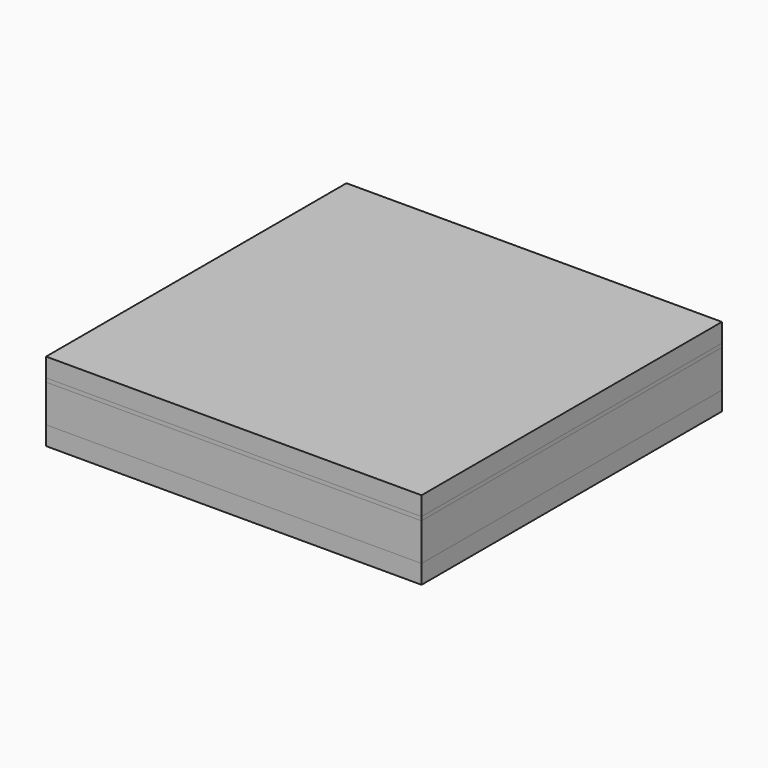
from build123d import *

# Parameters (mm, degrees)
F0_W      = 100
F0_H      = 100
F1_DEPTH  = 5
F2_W      = 94
F2_H      = 30
F3_DEPTH  = 1
F4_DEPTH  = 1
F5_DEPTH  = 2
F6_DEPTH  = 3
F7_DEPTH  = 1
F8_R      = 2
F8_R_2    = 1.9803043688
F8_R_3    = 2.1491299045
F8_R_4    = 1.9803032279
F8_R_5    = 1.8670470255
F9_DEPTH  = 1
F10_R     = 2
F10_R_2   = 1.9803043688
F10_R_3   = 2.1491299045
F10_R_4   = 1.9803032279
F10_R_5   = 1.8670470255
F11_DEPTH = 1
F12_R     = 2
F12_R_2   = 1.9803043688
F12_R_3   = 2.1491299045
F12_R_4   = 1.9803032279
F12_R_5   = 1.8670470255
F13_DEPTH = 1
F14_W     = 94
F14_H     = 30
F15_DEPTH = 1
F16_W     = 94
F16_H     = 30
F17_DEPTH = 1
F18_W     = 94
F18_H     = 30
F19_DEPTH = 1
F21_DEPTH = 94
F22_W     = 3
F22_H     = 100
F23_DEPTH = 10
F25_DEPTH = 1
F26_DEPTH = 5


with BuildPart() as f1:
    # F0 (on Top) → F1 (new body)
    with BuildSketch(Plane.XY):
        Rectangle(F0_W, F0_H)
    extrude(amount=F1_DEPTH)


with BuildPart() as f3:
    # F2 (on face) → F3 (new body)
    with BuildSketch(Plane.XY.offset(5)):
        with Locations((0, 32)):
            Rectangle(F2_W, F2_H)
    extrude(amount=F3_DEPTH)


with BuildPart() as f3b:
    # F2 (on face) → F3, piece 2 (new body)
    with BuildSketch(Plane.XY.offset(5)):
        Rectangle(F2_W, F2_H)
    extrude(amount=F3_DEPTH)


with BuildPart() as f3c:
    # F2 (on face) → F3, piece 3 (new body)
    with BuildSketch(Plane.XY.offset(5)):
        with Locations((0, -32)):
            Rectangle(F2_W, F2_H)
    extrude(amount=F3_DEPTH)


with BuildPart() as f4:
    # F4 (new): a face of the model
    f4_faces = [f3.part.faces().sort_by_distance(p)[0] for p in [
        (0, 32, 6),
    ]]
    extrude(f4_faces, amount=F4_DEPTH)


with BuildPart() as f5:
    # F5 (new): a face of the model
    f5_faces = [f3b.part.faces().sort_by_distance(p)[0] for p in [
        (0, 0, 6),
    ]]
    extrude(f5_faces, amount=F5_DEPTH)


with BuildPart() as f6:
    # F6 (new): a face of the model
    f6_faces = [f3c.part.faces().sort_by_distance(p)[0] for p in [
        (0, -32, 6),
    ]]
    extrude(f6_faces, amount=F6_DEPTH)


with BuildPart() as f7:
    # F7 (new): a face of the model
    f7_faces = [f6.part.faces().sort_by_distance(p)[0] for p in [
        (0, -32, 9),
    ]]
    extrude(f7_faces, amount=F7_DEPTH)

    # F8 (on face) → F9 (cut)
    with BuildSketch(Plane.XY.offset(10)):
        with Locations((-35.5509701187, -31.9915259829)):
            Circle(F8_R)
        with Locations((-18.1860954302, -36.5808133435)):
            Circle(F8_R)
        with Locations((-12.8525993794, -25.2936451459)):
            Circle(F8_R)
        with Locations((8.3573513544, -31.6194203253)):
            Circle(F8_R)
        with Locations((19.6445221769, -30.3790716333)):
            Circle(F8_R)
        with Locations((31.3037890322, -25.5417120843)):
            Circle(F8_R)
        with Locations((34.1565885739, -40.549926358)):
            Circle(F8_R)
        with Locations((12.5745365573, -42.9065885229)):
            Circle(F8_R)
        with Locations((3.1478911791, -21.4485638506)):
            Circle(F8_R)
        with Locations((-5.5345450714, -38.8134385391)):
            Circle(F8_R)
        with Locations((-30.5895753506, -22.0687399466)):
            Circle(F8_R)
        with Locations((-42.372882675, -41.0460654848)):
            Circle(F8_R)
        with Locations((40.1102650956, -29.014687722)):
            Circle(F8_R)
        with Locations((-28.4809853741, -42.5344828653)):
            Circle(F8_R)
        with Locations((21.7531104034, -38.8134385391)):
            Circle(F8_R)
        with Locations((-42.4969178942, -21.5725990698)):
            Circle(F8_R)
        with Locations((-2.8714367654, -30.001571402)):
            Circle(F8_R_2)
        with Locations((16.9315822423, -20.100062713)):
            Circle(F8_R_3)
        with Locations((-24.5227385312, -26.1729899794)):
            Circle(F8_R_4)
        with Locations((36.7345996201, -20.100062713)):
            Circle(F8_R)
        with Locations((41.35530442, -36.9986407459)):
            Circle(F8_R)
        with Locations((26.9651096314, -32.5099565089)):
            Circle(F8_R)
        with Locations((1.3532057637, -41.3553006947)):
            Circle(F8_R_5)
        with Locations((-14.4892092794, -44.5237867534)):
            Circle(F8_R)
    extrude(amount=-F9_DEPTH, mode=Mode.SUBTRACT)


with BuildPart() as f7b:
    # F7#2 (new): a face of the model
    f7_2_faces = [f5.part.faces().sort_by_distance(p)[0] for p in [
        (0, 0, 8),
    ]]
    extrude(f7_2_faces, amount=F7_DEPTH)

    # F10 (on face) → F11 (cut)
    with BuildSketch(Plane.XY.offset(9)):
        with Locations((-36.8780970282, -0.303228609)):
            Circle(F10_R)
        with Locations((-19.5132223397, -4.8925159696)):
            Circle(F10_R)
        with Locations((-14.1797262889, 6.394652228)):
            Circle(F10_R)
        with Locations((7.030224445, 0.0688770486)):
            Circle(F10_R)
        with Locations((18.3173952675, 1.3092257406)):
            Circle(F10_R)
        with Locations((29.9766621227, 6.1465852895)):
            Circle(F10_R)
        with Locations((32.8294616644, -8.8616289841)):
            Circle(F10_R)
        with Locations((11.2474096479, -11.218291149)):
            Circle(F10_R)
        with Locations((1.8207642696, 10.2397335233)):
            Circle(F10_R)
        with Locations((-6.8616719809, -7.1251411653)):
            Circle(F10_R)
        with Locations((-31.9167022601, 9.6195574273)):
            Circle(F10_R)
        with Locations((-43.7000095844, -9.3577681109)):
            Circle(F10_R)
        with Locations((38.7831381861, 2.6736096518)):
            Circle(F10_R)
        with Locations((-29.8081122836, -10.8461854914)):
            Circle(F10_R)
        with Locations((20.425983494, -7.1251411653)):
            Circle(F10_R)
        with Locations((-43.8240448036, 10.1156983041)):
            Circle(F10_R)
        with Locations((-4.1985636749, 1.6867259719)):
            Circle(F10_R_2)
        with Locations((15.6044553328, 11.5882346608)):
            Circle(F10_R_3)
        with Locations((-25.8498654407, 5.5153073945)):
            Circle(F10_R_4)
        with Locations((35.4074727106, 11.5882346608)):
            Circle(F10_R)
        with Locations((40.0281775105, -5.310343372)):
            Circle(F10_R)
        with Locations((25.637982722, -0.821659135)):
            Circle(F10_R)
        with Locations((0.0260788543, -9.6670033208)):
            Circle(F10_R_5)
        with Locations((-15.8163361889, -12.8354893795)):
            Circle(F10_R)
    extrude(amount=-F11_DEPTH, mode=Mode.SUBTRACT)


with BuildPart() as f7c:
    # F7#3 (new): a face of the model
    f7_3_faces = [f4.part.faces().sort_by_distance(p)[0] for p in [
        (0, 32, 7),
    ]]
    extrude(f7_3_faces, amount=F7_DEPTH)

    # F12 (on face) → F13 (cut)
    with BuildSketch(Plane.XY.offset(8)):
        with Locations((-35.2092898152, 32.6772198288)):
            Circle(F12_R)
        with Locations((-17.8444151267, 28.0879324683)):
            Circle(F12_R)
        with Locations((-12.5109190759, 39.3751006658)):
            Circle(F12_R)
        with Locations((8.699031658, 33.0493254864)):
            Circle(F12_R)
        with Locations((19.9862024805, 34.2896741784)):
            Circle(F12_R)
        with Locations((31.6454693357, 39.1270337274)):
            Circle(F12_R)
        with Locations((34.4982688774, 24.1188194537)):
            Circle(F12_R)
        with Locations((12.9162168609, 21.7621572889)):
            Circle(F12_R)
        with Locations((3.4895714826, 43.2201819611)):
            Circle(F12_R)
        with Locations((-5.1928647679, 25.8553072726)):
            Circle(F12_R)
        with Locations((-30.2478950471, 42.6000058651)):
            Circle(F12_R)
        with Locations((-42.0312023714, 23.6226803269)):
            Circle(F12_R)
        with Locations((40.4519453991, 35.6540580897)):
            Circle(F12_R)
        with Locations((-28.1393050706, 22.1342629465)):
            Circle(F12_R)
        with Locations((22.094790707, 25.8553072726)):
            Circle(F12_R)
        with Locations((-42.1552375906, 43.0961467419)):
            Circle(F12_R)
        with Locations((-2.5297564619, 34.6671744098)):
            Circle(F12_R_2)
        with Locations((17.2732625458, 44.5686830987)):
            Circle(F12_R_3)
        with Locations((-24.1810582277, 38.4957558323)):
            Circle(F12_R_4)
        with Locations((37.0762799236, 44.5686830987)):
            Circle(F12_R)
        with Locations((41.6969847235, 27.6701050658)):
            Circle(F12_R)
        with Locations((27.306789935, 32.1587893028)):
            Circle(F12_R)
        with Locations((1.6948860673, 23.313445117)):
            Circle(F12_R_5)
        with Locations((-14.1475289759, 20.1449590583)):
            Circle(F12_R)
    extrude(amount=-F13_DEPTH, mode=Mode.SUBTRACT)


with BuildPart() as f15:
    # F14 (on face) → F15 (new body)
    with BuildSketch(Plane.XY.offset(8)):
        with Locations((0, 32)):
            Rectangle(F14_W, F14_H)
    extrude(amount=F15_DEPTH)


with BuildPart() as f17:
    # F16 (on face) → F17 (new body)
    with BuildSketch(Plane.XY.offset(9)):
        Rectangle(F16_W, F16_H)
    extrude(amount=F17_DEPTH)


with BuildPart() as f19:
    # F18 (on face) → F19 (new body)
    with BuildSketch(Plane.XY.offset(10)):
        with Locations((0, -32)):
            Rectangle(F18_W, F18_H)
    extrude(amount=F19_DEPTH)


with BuildPart() as f21:
    # F20 (on face) → F21 (new body)
    with BuildSketch(Plane(origin=(-47, 0, 0), x_dir=(0, -1, 0), z_dir=(-1, 0, 0))):
        Polygon((-50, 15), (-50, 5), (-47, 5), (-47, 8), (-47, 8.9364862069), (-47, 9), (-17, 9), (-17, 8.9364862069), (-17, 8), (-17, 5), (-15, 5), (-15, 10.0152874365), (15, 10.0152874365), (15, 5), (17, 5), (17, 10.8776269481), (47, 10.8776269481), (47, 5), (50, 5), (50, 15), align=None)
    extrude(amount=-F21_DEPTH)


with BuildPart() as f23:
    # F22 (on face) → F23 (new body)
    with BuildSketch(Plane.XY.offset(5)):
        with Locations((-48.5, 0)):
            Rectangle(F22_W, F22_H)
    extrude(amount=F23_DEPTH)


with BuildPart() as f23b:
    # F22 (on face) → F23, piece 2 (new body)
    with BuildSketch(Plane.XY.offset(5)):
        with Locations((48.5, 0)):
            Rectangle(F22_W, F22_H)
    extrude(amount=F23_DEPTH)


with BuildPart() as f21_1:
    add(f21.part)

    # F24: union F23, F23b
    add(f23.part)
    add(f23b.part)


with BuildPart() as f25:
    # F25 (new): a face of the model
    f25_faces = [f21_1.part.faces().sort_by_distance(p)[0] for p in [
        (0, 0, 15),
    ]]
    extrude(f25_faces, amount=F25_DEPTH)


with BuildPart() as f26:
    # F26 (new): a face of the model
    f26_faces = [f25.part.faces().sort_by_distance(p)[0] for p in [
        (0, 0, 16),
    ]]
    extrude(f26_faces, amount=F26_DEPTH)


solid = Compound([f1.part, f3.part, f3b.part, f3c.part, f4.part, f5.part, f6.part, f7.part, f7b.part, f7c.part, f15.part, f17.part, f19.part, f21_1.part, f25.part, f26.part])
